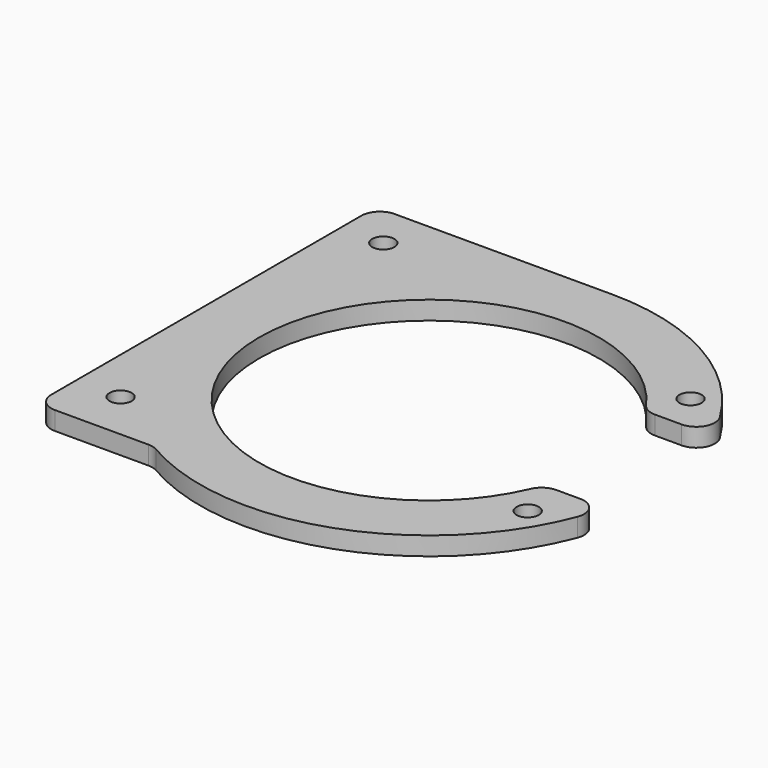
from build123d import *

# Parameters (mm, degrees)
F0_R     = 3
F1_DEPTH = 5


with BuildPart() as f1:
    # F0 (on Top) → F1 (new body)
    with BuildSketch(Plane.XY):
        with BuildLine():
            ThreePointArc((42.182817, -18.346934), (-45.745768, -4.82957), (37.42163, 26.751105))
            ThreePointArc((37.42163, 26.751105), (39.20213, 25.212564), (41.489198, 24.658834))
            Line((41.489198, 24.658834), (48.676006, 24.658834))
            ThreePointArc((48.676006, 24.658834), (53.035379, 27.210188), (52.945831, 32.260486))
            ThreePointArc((52.945831, 32.260486), (30.363217, 54.056221), (0, 62))
            Line((0, 62), (-58.927971, 62))
            ThreePointArc((-58.927971, 62), (-62.463505, 60.535534), (-63.927971, 57))
            Line((-63.927971, 57), (-63.927971, -48))
            ThreePointArc((-63.927971, -48), (-62.463505, -51.535534), (-58.927971, -53))
            Line((-58.927971, -53), (-33.54102, -53))
            ThreePointArc((-33.54102, -53), (-32.245217, -53.170829), (-31.037958, -53.671642))
            ThreePointArc((-31.037958, -53.671642), (20.722466, -58.434402), (57.917728, -22.125478))
            ThreePointArc((57.917728, -22.125478), (57.36529, -17.505814), (53.246943, -15.341166))
            Line((53.246943, -15.341166), (46.767905, -15.341166))
            ThreePointArc((46.767905, -15.341166), (44.026661, -16.159589), (42.182817, -18.346934))
        make_face()
        with Locations((-51.826652, -39.644886)):
            Circle(F0_R, mode=Mode.SUBTRACT)
        with Locations((48.010073, -26.615358)):
            Circle(F0_R, mode=Mode.SUBTRACT)
        with Locations((-52.489314, 50.138593)):
            Circle(F0_R, mode=Mode.SUBTRACT)
        with Locations((42.842665, 34.981498)):
            Circle(F0_R, mode=Mode.SUBTRACT)
    extrude(amount=F1_DEPTH)


solid = f1.part
